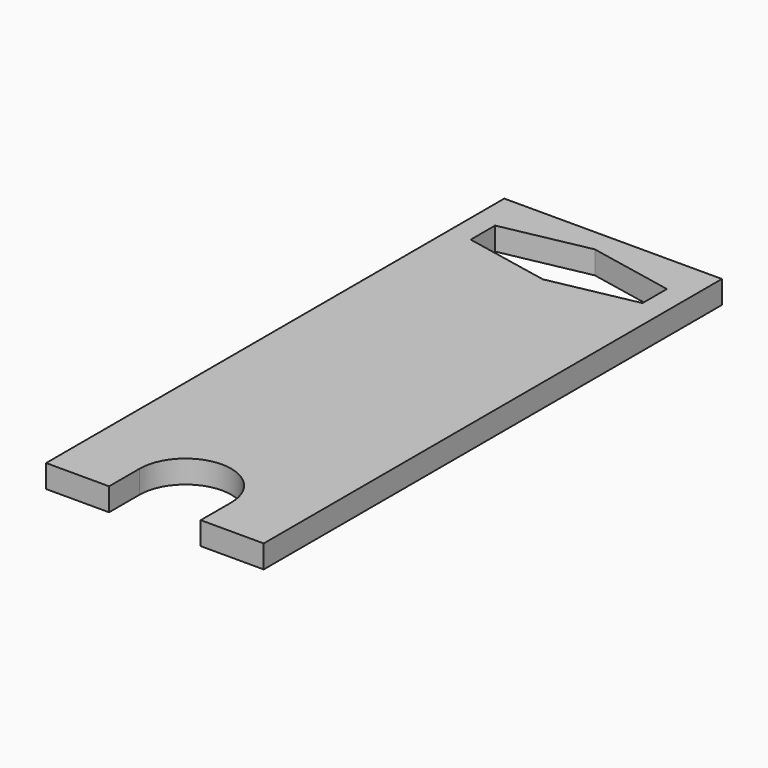
from build123d import *

# Parameters (mm, degrees)
PAD_DEPTH = 6


with BuildPart() as part:
    # Sketch → Pad (new body)
    with BuildSketch(Plane.XY):
        with BuildLine():
            ThreePointArc((12, -125.5), (0, -113.5), (-12, -125.5))
            Line((-12, -125.5), (-12, -135.5))
            Line((-12, -135.5), (-28.5, -135.5))
            Line((-28.5, -135.5), (-28.5, 14.5))
            Line((-28.5, 14.5), (28.5, 14.5))
            Line((28.5, 14.5), (28.5, -135.5))
            Line((28.5, -135.5), (12, -135.5))
            Line((12, -135.5), (12, -125.5))
        make_face()
        Polygon((0, 8.5), (-22.5, 4), (-22.5, -4), (0, -8.5), (22.5, -4), (22.5, 4), align=None, mode=Mode.SUBTRACT)
    extrude(amount=PAD_DEPTH)


solid = part.part
